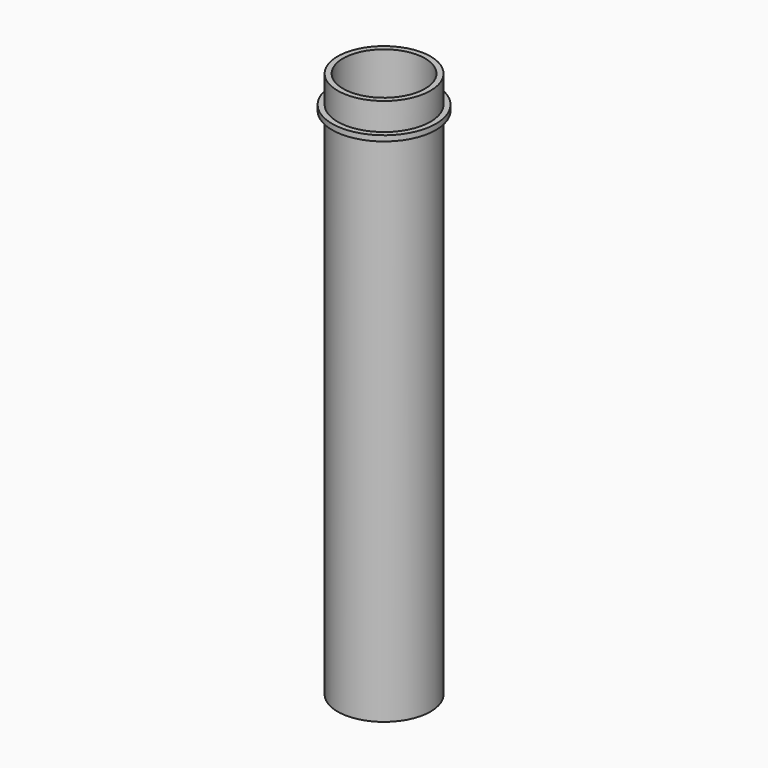
from build123d import *


with BuildPart() as part:
    # Sketch → Revolution (revolve)
    with BuildSketch(Plane.XZ):
        with BuildLine():
            Line((8.5, 94), (9.5, 94))
            Line((9.5, 94), (9.5, 95))
            Line((9.5, 95), (8.5, 95))
            Line((8.5, 95), (8.5, 100))
            Line((8.5, 100), (7.5, 100))
            Line((7.5, 100), (7.5, 13.555724))
            Line((7.5, 13.555724), (0, 4.617572))
            Line((0, 4.173296), (0, 4.617572))
            ThreePointArc((0, 4.173296), (0.845237, 4.36068), (1.532089, 4.88772))
            Line((1.532089, 4.88772), (7.5, 12))
            Line((7.5, 12), (7.5, 0))
            Line((7.5, 0), (8.5, 0))
            Line((8.5, 0), (8.5, 94))
        make_face()
    revolve(axis=Axis((0, 0, 0), (0, 0, 1)))


solid = part.part
